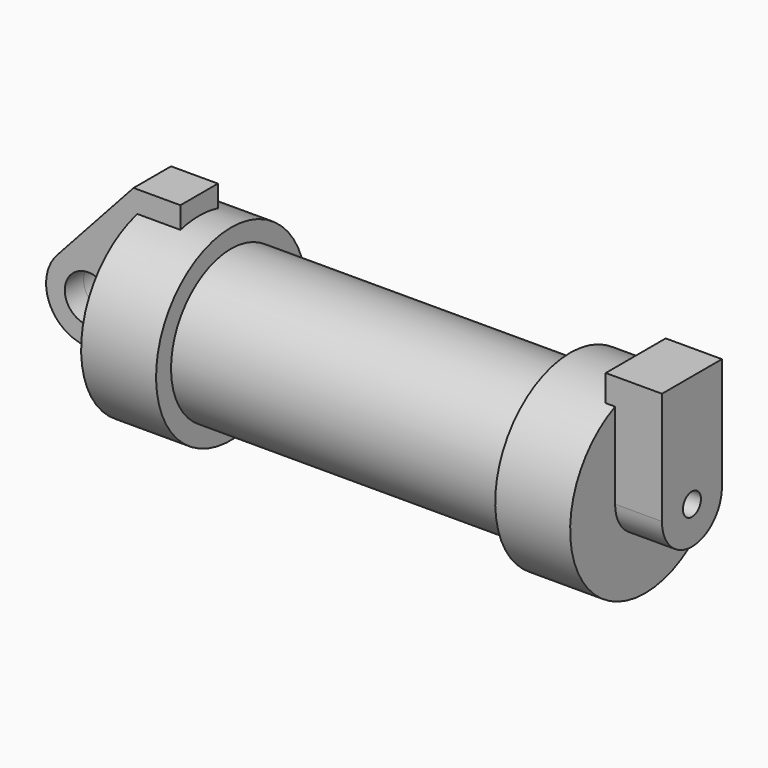
from build123d import *

# Parameters (mm, degrees)
F0_W          = 5.842
F0_H          = 12.7
F2_R          = 1.524
F3_DEPTH      = 6.35
F3_DEPTH_BACK = 1.27
F4_DEPTH      = 56.134
F0_R          = 3.175
F5_DEPTH      = 3.175
F5_DEPTH_BACK = 3.175


with BuildPart() as f1:
    # F0 (on Front) → F1 (revolve)
    with BuildSketch(Plane.XZ):
        Polygon((5.842, 12.7), (5.842, 0), (66.294, 0), (66.294, 12.7), (56.134, 12.7), (56.134, 10.16), (10.16, 10.16), (10.16, 12.7), align=None)
        with Locations((2.921, 6.35)):
            Rectangle(F0_W, F0_H)
    revolve(axis=Axis((33.147, 0, 0), (-1, 0, 0)))

    # F2 (on face) → F3 (join, two sides)
    with BuildSketch(Plane.YZ.offset(66.294)) as f3_sk:
        with BuildLine():
            ThreePointArc((-5.08, 0), (0, -5.08), (5.08, 0))
            ThreePointArc((5.08, 0), (0, 5.08), (-5.08, 0))
        make_face()
        Circle(F2_R, mode=Mode.SUBTRACT)
        with BuildLine():
            ThreePointArc((-5.08, 0), (0, 5.08), (5.08, 0))
            Line((5.08, 0), (5.08, 15.24))
            Line((5.08, 15.24), (-5.08, 15.24))
            Line((-5.08, 15.24), (-5.08, 0))
        make_face()
    extrude(amount=F3_DEPTH)
    extrude(f3_sk.sketch, amount=-F3_DEPTH_BACK)

    # F2 (on face) → F4 (cut, through all)
    with BuildSketch(Plane.YZ.offset(66.294)):
        Circle(F2_R)
    extrude(amount=-F4_DEPTH, mode=Mode.SUBTRACT)

    # F0 (on Front) → F5 (join, two sides)
    with BuildSketch(Plane.XZ) as f5_sk:
        with BuildLine():
            Line((-0.9398, 0), (0, 0))
            Line((0, 0), (0, 12.7))
            Line((0, 12.7), (5.842, 12.7))
            Line((5.842, 12.7), (5.842, 15.24))
            Line((5.842, 15.24), (-0.508, 15.24))
            Line((-0.508, 15.24), (-10.88063, 3.847543))
            ThreePointArc((-10.88063, 3.847543), (-4.591961, 5.329721), (-0.9398, 0))
        make_face()
        with BuildLine():
            ThreePointArc((-8.182663, -5.506983), (-3.195791, -4.549339), (-0.9398, 0))
            ThreePointArc((-0.9398, 0), (-4.591961, 5.329721), (-10.88063, 3.847543))
            ThreePointArc((-10.88063, 3.847543), (-12.145978, -1.583727), (-8.182663, -5.506983))
        make_face()
        with Locations((-6.6548, 0)):
            Circle(F0_R, mode=Mode.SUBTRACT)
        with BuildLine():
            Line((5.842, 0), (0, 0))
            Line((0, 0), (-0.9398, 0))
            ThreePointArc((-0.9398, 0), (-3.195791, -4.549339), (-8.182663, -5.506983))
            Line((-8.182663, -5.506983), (5.842, -9.398))
            Line((5.842, -9.398), (5.842, 0))
        make_face()
        with Locations((2.921, 6.35)):
            Rectangle(F0_W, F0_H)
    extrude(amount=F5_DEPTH)
    extrude(f5_sk.sketch, amount=-F5_DEPTH_BACK)


solid = f1.part
